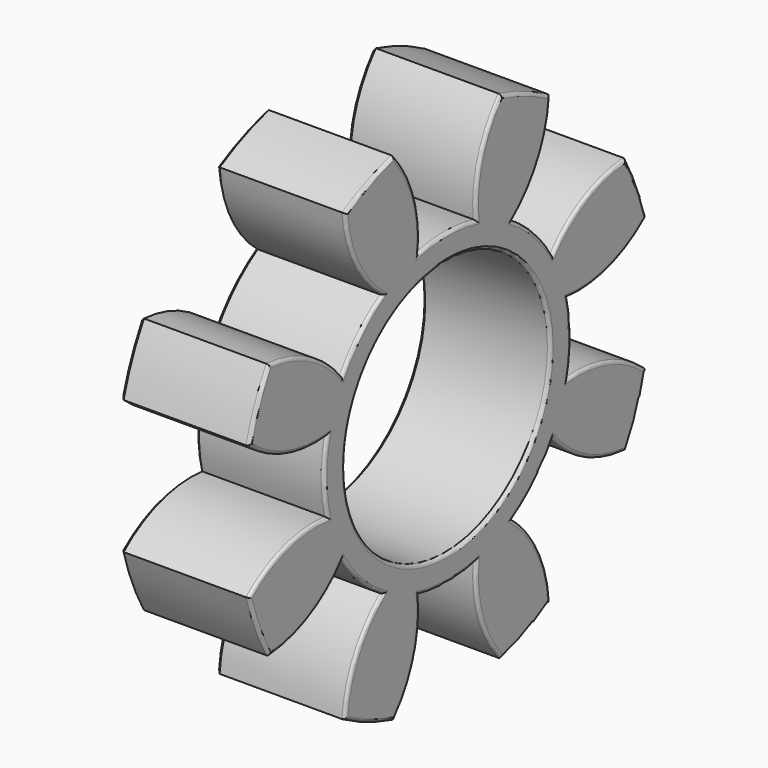
from build123d import *

# Parameters (mm, degrees)
SKETCH_R           = 20
PAD_DEPTH          = 10
POCKET_DEPTH       = 124.892253
POLARPATTERN_COUNT = 8
SKETCH002_R        = 10
POCKET001_DEPTH    = 10.001
FILLET_R           = 0.25
CHAMFER_SIZE       = 0.25


with BuildPart() as part:
    # Sketch → Pad (new body)
    with BuildSketch(Plane.YZ):
        Circle(SKETCH_R)
    extrude(amount=-PAD_DEPTH)

    # Sketch001 → Pocket (cut, through all)
    with BuildSketch(Plane.YZ):
        with BuildLine():
            ThreePointArc((5.201181, 19.311854), (0, 20), (-5.201181, 19.311854))
            ThreePointArc((-2.783758, 11.672647), (-3.193904, 15.744956), (-5.201181, 19.311854))
            ThreePointArc((2.783758, 11.672647), (0, 12), (-2.783758, 11.672647))
            ThreePointArc((5.201181, 19.311854), (3.193904, 15.744956), (2.783758, 11.672647))
        make_face()
    pocket = extrude(amount=-POCKET_DEPTH, mode=Mode.SUBTRACT)

    # PolarPattern: Pocket ×8 about axis
    polarpattern_axis = Axis((0, 0, 0), (1, 0, 0))
    for i in range(1, POLARPATTERN_COUNT):
        add(pocket.rotate(polarpattern_axis, i * 360 / POLARPATTERN_COUNT), mode=Mode.SUBTRACT)

    # Sketch002 → Pocket001 (cut, through all)
    with BuildSketch(Plane.YZ):
        Circle(SKETCH002_R)
    extrude(amount=-POCKET001_DEPTH, mode=Mode.SUBTRACT)

    # Fillet
    fillet_edges = [part.edges().sort_by_distance(p)[0] for p in [
        (0, -3.193904, 15.744956),
        (0, 0, 12),
        (0, -7.653669, 18.477591),
        (0, 3.193904, 15.744956),
        (0, -8.874934, 13.391796),
        (0, 7.653669, 18.477591),
        (0, -8.485281, 8.485281),
        (0, 8.874934, 13.391796),
        (0, -13.391796, 8.874934),
        (0, 8.485281, 8.485281),
        (0, -18.477591, 7.653669),
        (0, 13.391796, 8.874934),
        (0, -15.744956, 3.193904),
        (0, 18.477591, 7.653669),
        (0, -12, 0),
        (0, 15.744956, 3.193904),
        (0, -15.744956, -3.193904),
        (0, 12, 0),
        (0, -18.477591, -7.653669),
        (0, 15.744956, -3.193904),
        (0, -13.391796, -8.874934),
        (0, 18.477591, -7.653669),
        (0, -8.485281, -8.485281),
        (0, 13.391796, -8.874934),
        (0, -8.874934, -13.391796),
        (0, 8.485281, -8.485281),
        (0, -7.653669, -18.477591),
        (0, 8.874934, -13.391796),
        (0, -3.193904, -15.744956),
        (0, 7.653669, -18.477591),
        (0, 0, -12),
        (0, 3.193904, -15.744956),
        (0, -10, 0),
    ]]
    fillet(fillet_edges, radius=FILLET_R)

    # Chamfer
    chamfer_edges = [part.edges().sort_by_distance(p)[0] for p in [
        (-10, -3.193904, 15.744956),
        (-10, 0, 12),
        (-10, -7.653669, 18.477591),
        (-10, 3.193904, 15.744956),
        (-10, -8.874934, 13.391796),
        (-10, 7.653669, 18.477591),
        (-10, -8.485281, 8.485281),
        (-10, 8.874934, 13.391796),
        (-10, -13.391796, 8.874934),
        (-10, 8.485281, 8.485281),
        (-10, -18.477591, 7.653669),
        (-10, 13.391796, 8.874934),
        (-10, -15.744956, 3.193904),
        (-10, 18.477591, 7.653669),
        (-10, -12, 0),
        (-10, 15.744956, 3.193904),
        (-10, -15.744956, -3.193904),
        (-10, 12, 0),
        (-10, -18.477591, -7.653669),
        (-10, 15.744956, -3.193904),
        (-10, -13.391796, -8.874934),
        (-10, 18.477591, -7.653669),
        (-10, -8.485281, -8.485281),
        (-10, 13.391796, -8.874934),
        (-10, -8.874934, -13.391796),
        (-10, 8.485281, -8.485281),
        (-10, -7.653669, -18.477591),
        (-10, 8.874934, -13.391796),
        (-10, -3.193904, -15.744956),
        (-10, 7.653669, -18.477591),
        (-10, 0, -12),
        (-10, 3.193904, -15.744956),
        (-10, -10, 0),
    ]]
    chamfer(chamfer_edges, length=CHAMFER_SIZE)


solid = part.part
